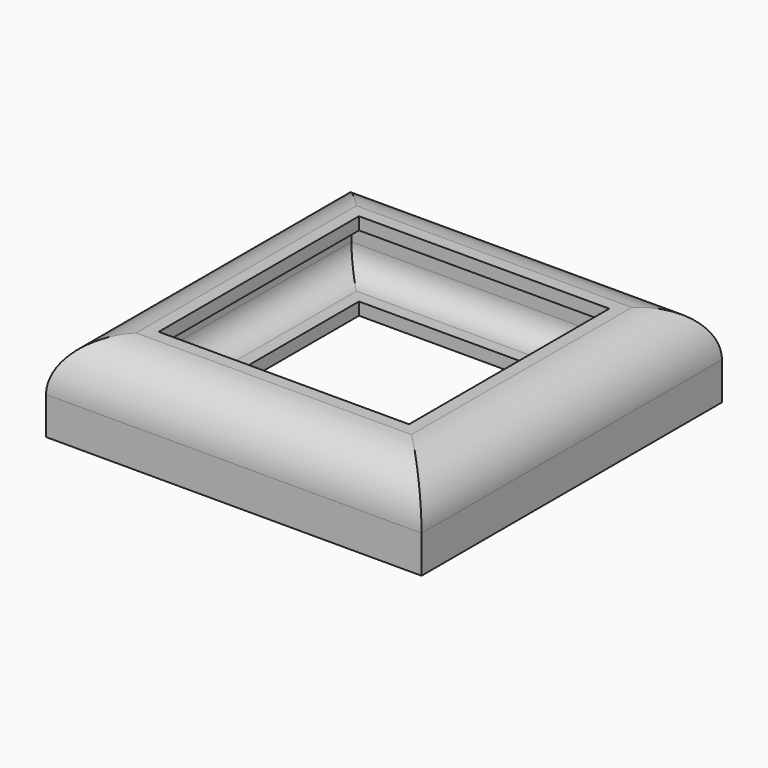
from build123d import *

# Parameters (mm, degrees)
F0_W          = 38.1
F0_H          = 38.1
F0_W_2        = 33.02
F0_H_2        = 33.02
F0_W_3        = 25.4
F0_H_3        = 25.4
F1_DEPTH      = 4.445
F1_DEPTH_BACK = 4.445
F2_DEPTH      = 3.175
F2_DEPTH_BACK = 3.175
F3_R          = 2.54
F4_R          = 2.54
F5_R          = 5.08


with BuildPart() as f1:
    # F0 (on Top) → F1 (new body, two sides)
    with BuildSketch(Plane.XY) as f1_sk:
        Rectangle(F0_W, F0_H)
        Rectangle(F0_W_2, F0_H_2, mode=Mode.SUBTRACT)
        Rectangle(F0_W_2, F0_H_2)
        Rectangle(F0_W_3, F0_H_3, mode=Mode.SUBTRACT)
    extrude(amount=F1_DEPTH)
    extrude(f1_sk.sketch, amount=-F1_DEPTH_BACK)

    # F0 (on Top) → F2 (cut, two sides)
    with BuildSketch(Plane.XY) as f2_sk:
        Rectangle(F0_W_2, F0_H_2)
        Rectangle(F0_W_3, F0_H_3, mode=Mode.SUBTRACT)
    extrude(amount=F2_DEPTH, mode=Mode.SUBTRACT)
    extrude(f2_sk.sketch, amount=-F2_DEPTH_BACK, mode=Mode.SUBTRACT)

    # F3
    f3_edges = [f1.edges().sort_by_distance(p)[0] for p in [
        (-16.51, 0, -3.175),
        (0, 16.51, -3.175),
        (16.51, 0, -3.175),
        (0, -16.51, -3.175),
    ]]
    fillet(f3_edges, radius=F3_R)

    # F4
    f4_edges = [f1.edges().sort_by_distance(p)[0] for p in [
        (0, 16.51, 3.175),
        (16.51, 0, 3.175),
        (0, -16.51, 3.175),
        (-16.51, 0, 3.175),
    ]]
    fillet(f4_edges, radius=F4_R)

    # F5
    f5_edges = [f1.edges().sort_by_distance(p)[0] for p in [
        (19.05, 0, 4.445),
        (0, 19.05, 4.445),
        (-19.05, 0, 4.445),
        (0, -19.05, 4.445),
    ]]
    fillet(f5_edges, radius=F5_R)


solid = f1.part
